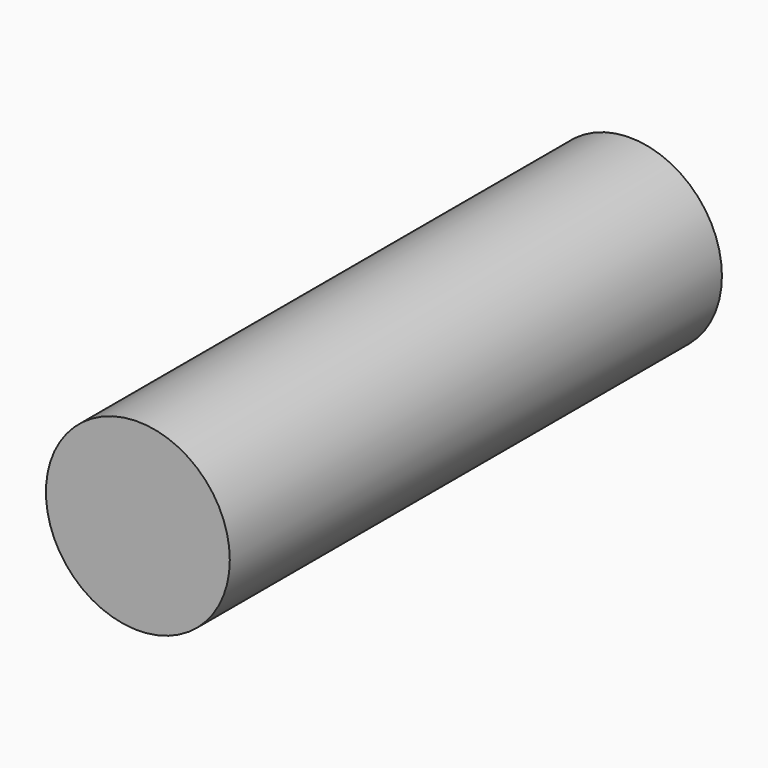
from build123d import *

# Parameters (mm, degrees)
F0_R     = 7.25
F1_DEPTH = 48.5
F2_R     = 2.5
F3_DEPTH = 1.5


with BuildPart() as f1:
    # F0 (on Front) → F1 (new body)
    with BuildSketch(Plane.XZ):
        Circle(F0_R)
    extrude(amount=F1_DEPTH)

    # F2 (on face) → F3 (join)
    with BuildSketch(Plane.XZ):
        Circle(F2_R)
    extrude(amount=-F3_DEPTH)


solid = f1.part
